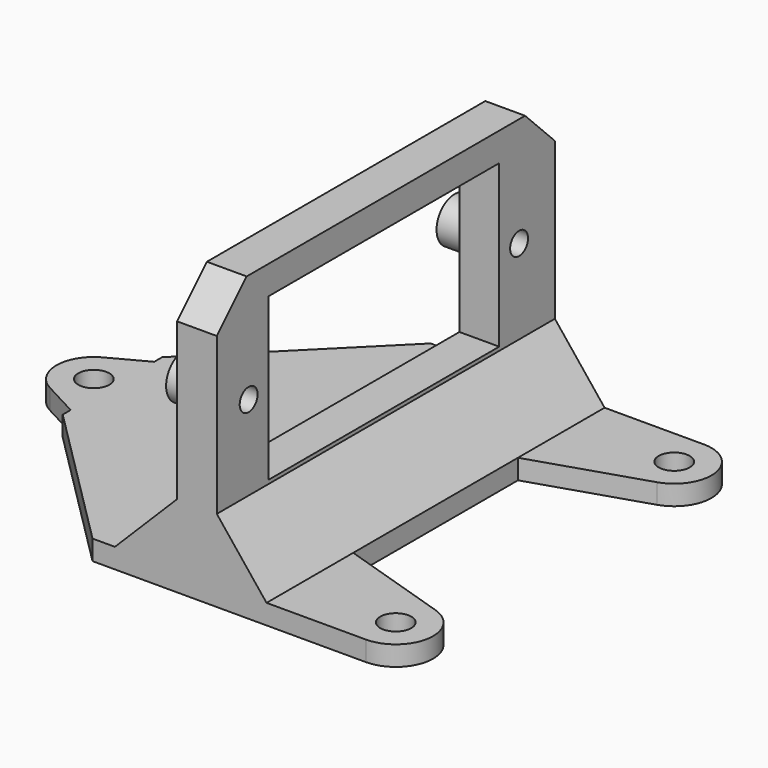
from build123d import *

# Parameters (mm, degrees)
PAD_DEPTH       = 34
SKETCH_R        = 0.9
POCKET_DEPTH    = 22.001
SKETCH003_W     = 13
SKETCH003_H     = 23.2
POCKET001_DEPTH = 22.001
SKETCH005_R     = 1.25
PAD001_DEPTH    = 1.6
SKETCH006_R     = 1.25
PAD002_DEPTH    = 1.6
SKETCH008_R     = 1.8
SKETCH008_R_2   = 1
PAD003_DEPTH    = 2
CHAMFER_SIZE    = 3
CHAMFER001_SIZE = 12


with BuildPart() as part:
    # Sketch001 → Pad (new body)
    with BuildSketch(Plane.XZ):
        Polygon((-22, 1.6), (-8.2, 1.6), (-3.2, 6.6), (-3.2, 22.2), (0, 22.2), (0, 6.6), (4, 1.6), (4, 0), (-3.601763, 0), (-22, 0), align=None)
    extrude(amount=PAD_DEPTH)

    # Sketch → Pocket (cut, through all)
    with BuildSketch(Plane(origin=(0, 0, 0), x_dir=(0, 0, 1), z_dir=(1, 0, 0))):
        with Locations((13.4, 30.8)):
            Circle(SKETCH_R)
        with Locations((13.4, 3.6)):
            Circle(SKETCH_R)
    extrude(amount=-POCKET_DEPTH, mode=Mode.SUBTRACT)

    # Sketch003 (on DatumPlane) → Pocket001 (cut, through all)
    with BuildSketch(Plane(origin=(0, 0, 0), x_dir=(0, 0, 1), z_dir=(1, 0, 0))):
        with Locations((13.4, 17.2)):
            Rectangle(SKETCH003_W, SKETCH003_H)
    extrude(amount=-POCKET001_DEPTH, mode=Mode.SUBTRACT)

    # Sketch005 → Pad001 (join)
    with BuildSketch(Plane.XY):
        with BuildLine():
            ThreePointArc((-24.911765, -14.352941), (-26.5, -17), (-24.911765, -19.647059))
            Line((-20.5, -22), (-24.911765, -19.647059))
            Line((-20.5, -12), (-20.5, -22))
            Line((-20.5, -12), (-24.911765, -14.352941))
        make_face()
        with Locations((-23.5, -17)):
            Circle(SKETCH005_R, mode=Mode.SUBTRACT)
    extrude(amount=PAD001_DEPTH)

    # Sketch006 → Pad002 (join)
    with BuildSketch(Plane.XY):
        with BuildLine():
            ThreePointArc((12, -34), (14.963938, -31.463756), (12.916362, -28.143379))
            Line((0, -24), (12.916362, -28.143379))
            Line((0, -34), (0, -24))
            Line((0, -34), (12, -34))
        make_face()
        with Locations((12, -31)):
            Circle(SKETCH006_R, mode=Mode.SUBTRACT)
        with BuildLine():
            ThreePointArc((12.916362, -5.856621), (14.96394, -2.536256), (12.000023, 0))
            Line((0, 0), (12.000023, 0))
            Line((0, 0), (0, -10))
            Line((0, -10), (12.916362, -5.856621))
        make_face()
        with Locations((12, -3)):
            Circle(SKETCH006_R, mode=Mode.SUBTRACT)
    extrude(amount=PAD002_DEPTH)

    # Sketch008 (on Face2 of Pad002) → Pad003 (join)
    with BuildSketch(Plane(origin=(-3.2, 0, 0), x_dir=(0, 0, -1), z_dir=(-1, 0, 0))):
        with Locations((-13.4, 30.8)):
            Circle(SKETCH008_R)
        with Locations((-13.4, 30.8)):
            Circle(SKETCH008_R_2, mode=Mode.SUBTRACT)
        with Locations((-13.4, 3.6)):
            Circle(SKETCH008_R)
        with Locations((-13.4, 3.6)):
            Circle(SKETCH008_R_2, mode=Mode.SUBTRACT)
    extrude(amount=PAD003_DEPTH)

    # Chamfer
    chamfer_edges = [part.edges().sort_by_distance(p)[0] for p in [
        (-1.6, -34, 22.2),
        (-1.6, 0, 22.2),
    ]]
    chamfer(chamfer_edges, length=CHAMFER_SIZE)

    # Chamfer001
    chamfer001_edges = [part.edges().sort_by_distance(p)[0] for p in [
        (-22, -34, 0.8),
        (-22, 0, 0.8),
    ]]
    chamfer(chamfer001_edges, length=CHAMFER001_SIZE)


solid = part.part
